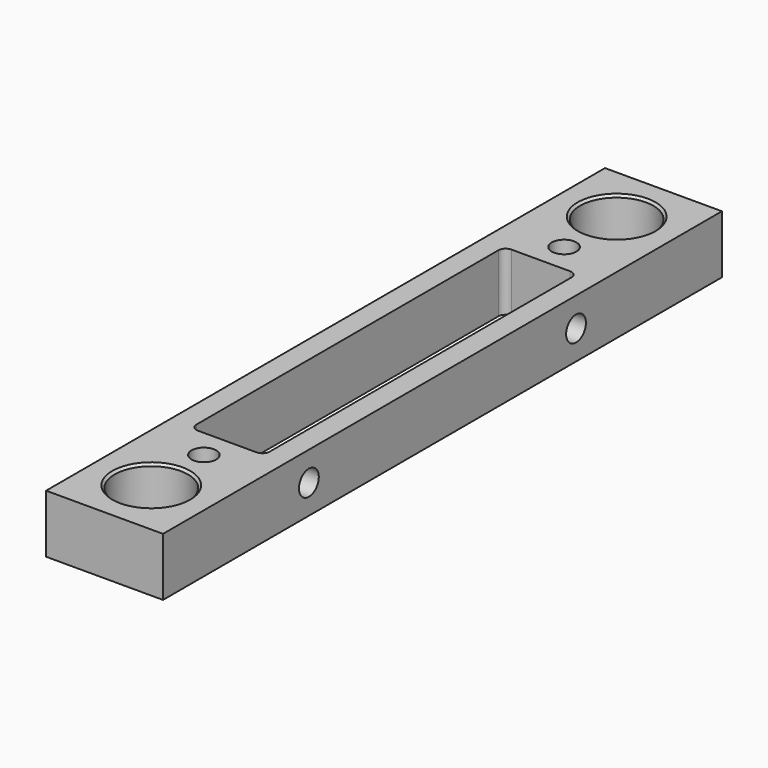
from build123d import *

# Parameters (mm, degrees)
F0_W     = 12.7625
F0_H     = 76.2625
F0_R     = 4
F0_R_2   = 1.35255
F0_W_2   = 8
F0_H_2   = 42.8
F1_DEPTH = 6.35
F2_R     = 0.79375
F3_SIZE  = 0.254
F4_R     = 1.35255
F5_DEPTH = 2.38125


with BuildPart() as f1:
    # F0 (on Top) → F1 (new body)
    with BuildSketch(Plane.XY):
        Rectangle(F0_W, F0_H)
        with Locations((0, -31.75)):
            Circle(F0_R, mode=Mode.SUBTRACT)
        with Locations((0, -24.575)):
            Circle(F0_R_2, mode=Mode.SUBTRACT)
        Rectangle(F0_W_2, F0_H_2, mode=Mode.SUBTRACT)
        with Locations((0, 24.575)):
            Circle(F0_R_2, mode=Mode.SUBTRACT)
        with Locations((0, 31.75)):
            Circle(F0_R, mode=Mode.SUBTRACT)
    extrude(amount=F1_DEPTH)

    # F2
    f2_edges = [f1.edges().sort_by_distance(p)[0] for p in [
        (4, -21.4, 3.175),
        (-4, -21.4, 3.175),
        (-4, 21.4, 3.175),
        (4, 21.4, 3.175),
    ]]
    fillet(f2_edges, radius=F2_R)

    # F3
    f3_edges = [f1.edges().sort_by_distance(p)[0] for p in [
        (-4, 31.75, 6.35),
        (-4, -31.75, 6.35),
    ]]
    chamfer(f3_edges, length=F3_SIZE)

    # F4 (on face) → F5 (cut, through all)
    with BuildSketch(Plane.YZ.offset(6.38125)):
        with Locations((-18.225, 3.175)):
            Circle(F4_R)
        with Locations((18.225, 3.175)):
            Circle(F4_R)
    extrude(amount=-F5_DEPTH, mode=Mode.SUBTRACT)


solid = f1.part
